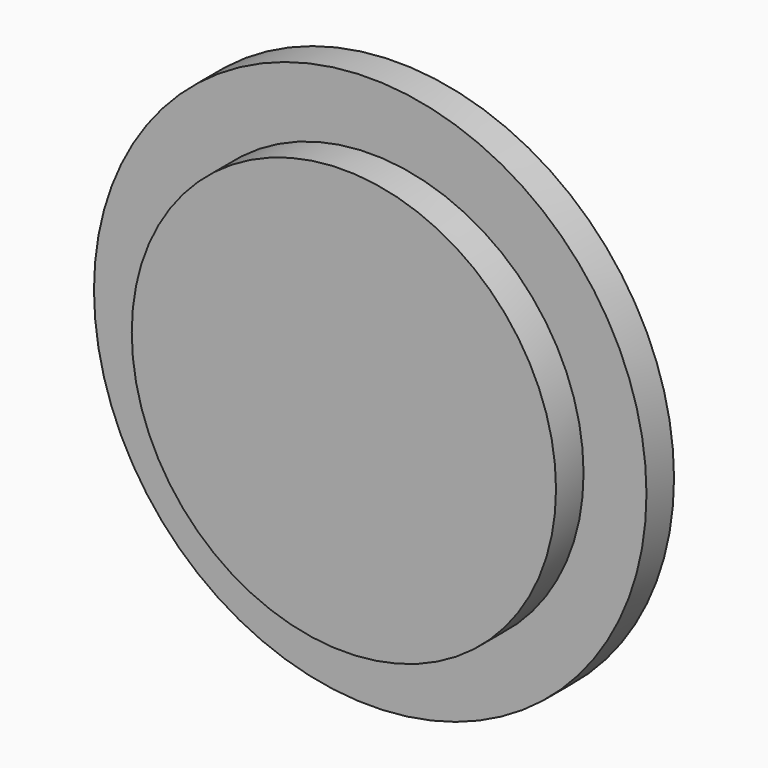
from build123d import *

# Parameters (mm, degrees)
F0_R     = 30.807139
F1_DEPTH = 5
F2_R     = 40.117073
F3_DEPTH = 5
F4_W     = 30
F4_H     = 5.740043
F5_DEPTH = 20


with BuildPart() as f1:
    # F0 (on Front) → F1 (new body)
    with BuildSketch(Plane.XZ):
        with Locations((-24.092231, 22.158904)):
            Circle(F0_R)
    extrude(amount=F1_DEPTH)

    # F2 (on Front) → F3 (join)
    with BuildSketch(Plane.XZ):
        with Locations((-24.265252, 22.470835)):
            Circle(F2_R)
    extrude(amount=-F3_DEPTH)

    # F4 (on Front) → F5 (join)
    with BuildSketch(Plane.XZ):
        with Locations((-24.613258, 39.558847)):
            Rectangle(F4_W, F4_H)
    extrude(amount=-F5_DEPTH)


solid = f1.part
